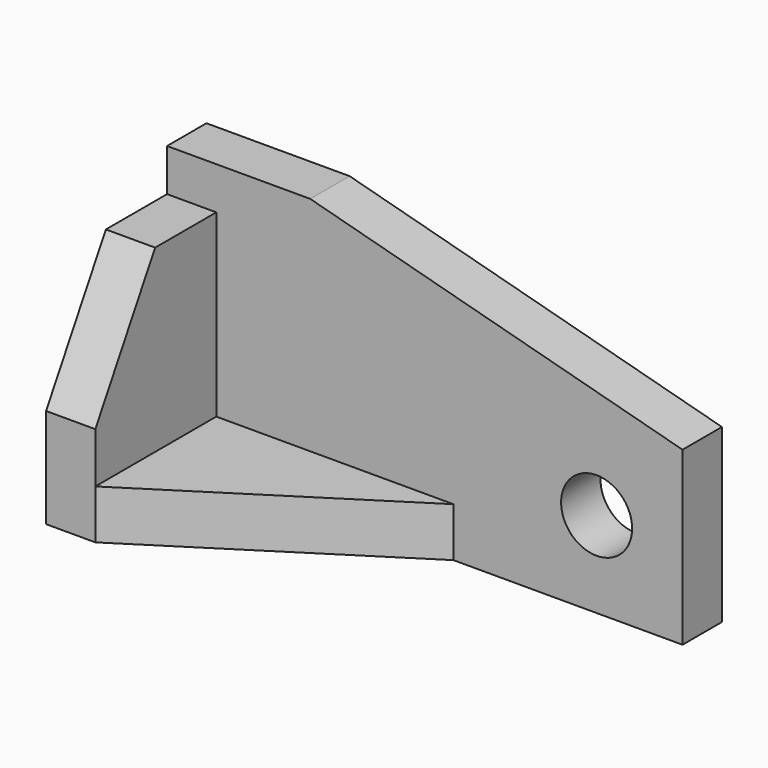
from build123d import *

# Parameters (mm, degrees)
F1_DEPTH = 10.922
F2_R     = 7.874
F3_DEPTH = 10.923
F5_DEPTH = 10.922
F7_DEPTH = 10.922


with BuildPart() as f1:
    # F0 (on Front) → F1 (new body)
    with BuildSketch(Plane.XZ):
        Polygon((-57.15, -31.405958), (57.15, -31.405958), (57.15, 6.672836), (-25.4, 28.792042), (-57.15, 28.792042), align=None)
    extrude(amount=F1_DEPTH)

    # F2 (on face) → F3 (cut, through all)
    with BuildSketch(Plane.XZ.offset(10.922)):
        with Locations((38.1, -12.355958)):
            Circle(F2_R)
    extrude(amount=-F3_DEPTH, mode=Mode.SUBTRACT)


with BuildPart() as f5:
    # F4 (on face) → F5 (new body)
    with BuildSketch(Plane(origin=(0, 0, -31.405958), x_dir=(1, 0, 0), z_dir=(0, 0, -1))):
        Polygon((-46.228, 44.45), (-46.228, 10.922), (6.35, 10.922), align=None)
    extrude(amount=-F5_DEPTH)


with BuildPart() as f7:
    # F6 (on face) → F7 (new body)
    with BuildSketch(Plane(origin=(-57.15, 0, 0), x_dir=(0, -1, 0), z_dir=(-1, 0, 0))):
        Polygon((10.922, 19.394042), (10.922, -31.405958), (44.45, -31.405958), (44.45, -9.307958), (27.878893, 19.394042), align=None)
    extrude(amount=-F7_DEPTH)


solid = Compound([f1.part, f5.part, f7.part])
